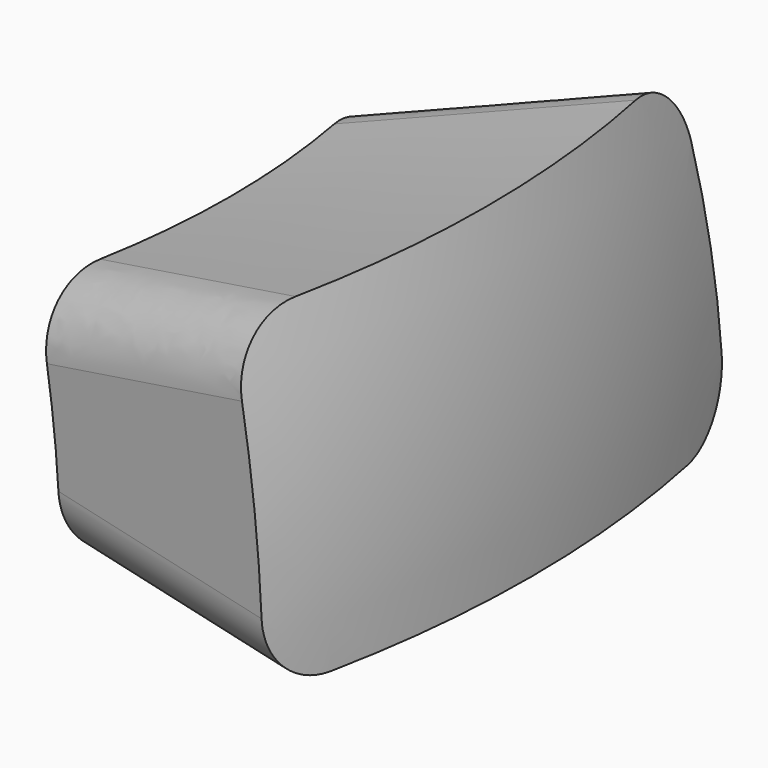
from build123d import *

# Parameters (mm, degrees)
F1_ANGLE_BACK = 15
F1_ANGLE      = 30
F2_R          = 30


with BuildPart() as f1:
    # F0 (on Front) → F1 (revolve)
    with BuildSketch(Plane.XZ, mode=Mode.PRIVATE) as f1_sk:
        with BuildLine():
            Line((380, 0), (500, 0))
            ThreePointArc((500, 0), (494.9747468306, 70.7106781187), (480, 140))
            Line((480, 140), (364.8, 106.4))
            ThreePointArc((364.8, 106.4), (376.1808075912, 53.7401153702), (380, 0))
        make_face()
    revolve(f1_sk.sketch.rotate(Axis((0, 0, 25.3354795277), (0, 0, 1)), -F1_ANGLE_BACK), axis=Axis((0, 0, 25.3354795277), (0, 0, 1)), revolution_arc=F1_ANGLE)

    # F2
    f2_edges = [f1.edges().sort_by_distance(p)[0] for p in [
        (408.007069, -109.325165, 123.2),
        (425.007364, -113.88038, 0),
        (425.007364, 113.88038, 0),
        (408.007069, 109.325165, 123.2),
    ]]
    fillet(f2_edges, radius=F2_R)


solid = f1.part
